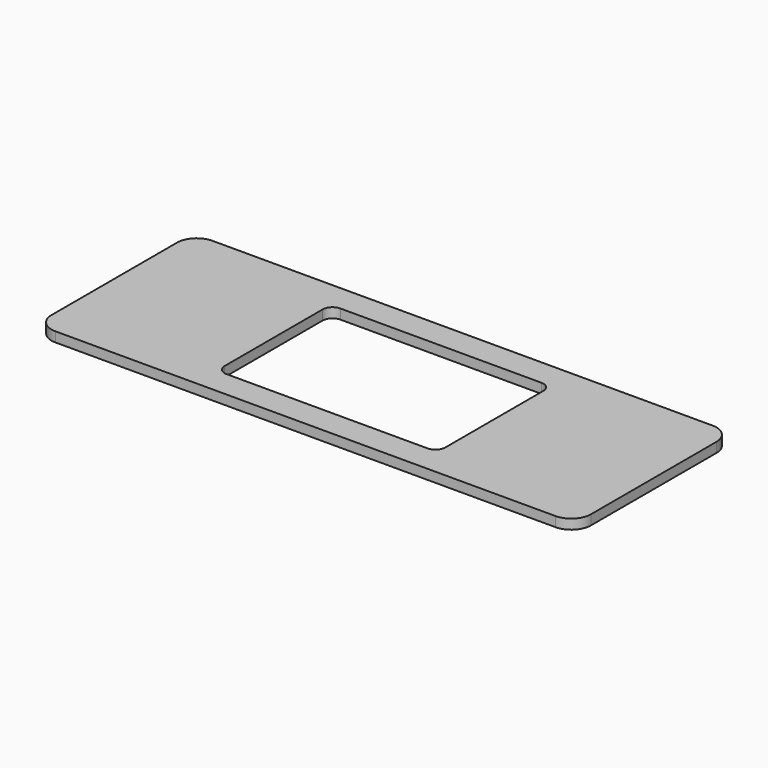
from build123d import *

# Parameters (mm, degrees)
F0_W     = 110
F0_H     = 40
F1_DEPTH = 2
F2_W     = 45
F2_H     = 29
F3_DEPTH = 2.001
F4_R     = 2
F5_R     = 4


with BuildPart() as f1:
    # F0 (on Top) → F1 (new body)
    with BuildSketch(Plane.XY):
        Rectangle(F0_W, F0_H)
    extrude(amount=F1_DEPTH)

    # F2 (on face) → F3 (cut, through all)
    with BuildSketch(Plane.XY.offset(2)):
        Rectangle(F2_W, F2_H)
    extrude(amount=-F3_DEPTH, mode=Mode.SUBTRACT)

    # F4
    f4_edges = [f1.edges().sort_by_distance(p)[0] for p in [
        (-22.5, 14.5, 1),
        (22.5, 14.5, 1),
        (-22.5, -14.5, 1),
        (22.5, -14.5, 1),
    ]]
    fillet(f4_edges, radius=F4_R)

    # F5
    f5_edges = [f1.edges().sort_by_distance(p)[0] for p in [
        (-55, -20, 1),
        (-55, 20, 1),
        (55, 20, 1),
        (55, -20, 1),
    ]]
    fillet(f5_edges, radius=F5_R)


solid = f1.part
